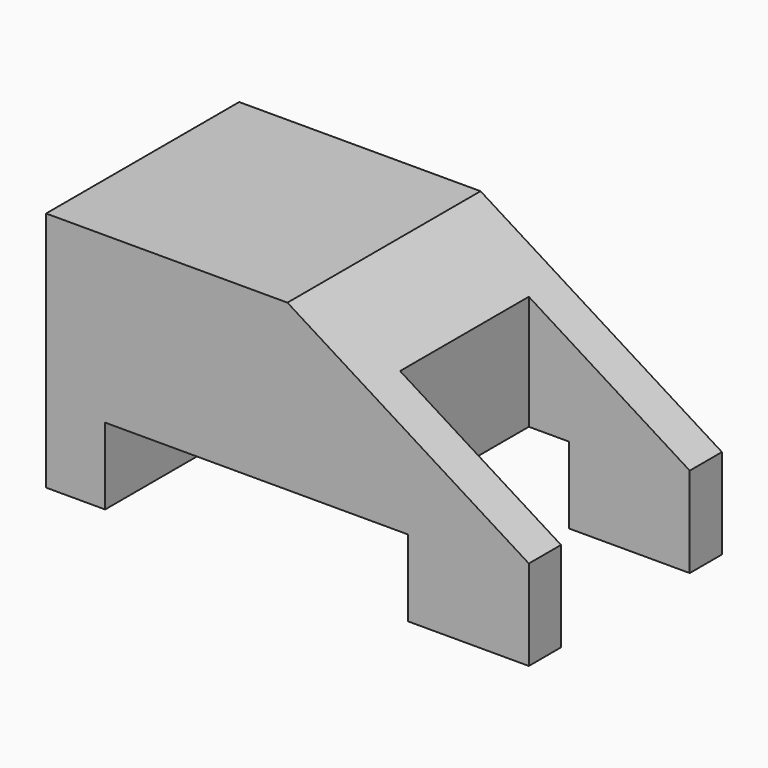
from build123d import *

# Parameters (mm, degrees)
F1_DEPTH = 15
F3_DEPTH = 15.001
F2_W     = 18.829098
F2_H     = 4.753366
F4_DEPTH = 15.001


with BuildPart() as f1:
    # F0 (on Top) → F1 (new body)
    with BuildSketch(Plane.XY):
        Polygon((0, 15), (0, 0), (30, 0), (30, 2.5), (20, 2.5), (20, 12.5), (30, 12.5), (30, 15), align=None)
    extrude(amount=F1_DEPTH)

    # F2 (on face) → F3 (cut, through all)
    with BuildSketch(Plane.XZ):
        Polygon((30, 15), (15, 15), (30, 5.606282), align=None)
    extrude(amount=-F3_DEPTH, mode=Mode.SUBTRACT)

    # F2 (on face) → F4 (cut, through all)
    with BuildSketch(Plane.XZ):
        with Locations((13.085451, 2.376683)):
            Rectangle(F2_W, F2_H)
    extrude(amount=-F4_DEPTH, mode=Mode.SUBTRACT)


solid = f1.part
